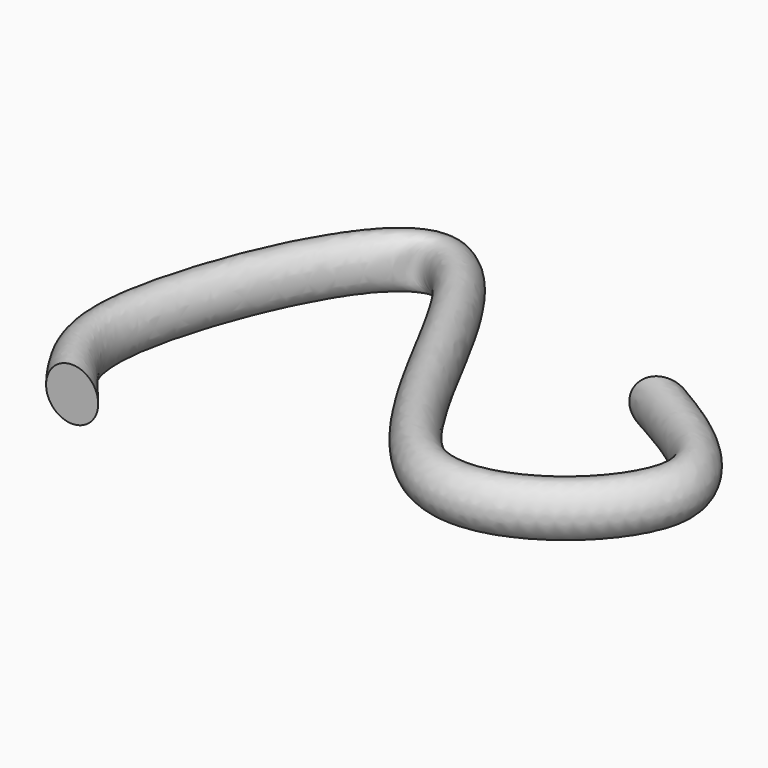
from build123d import *

# Parameters (mm, degrees)
F1_R = 18.4431966288


with BuildPart() as f2:
    # F2: sweep along a path in F0
    with BuildLine(Plane.XY) as f2_path:
        add(Edge.make_bspline(
            [(0, 0), (-23.761194386, 29.112652964), (-48.9792557695, 76.6812951235), (77.1344122049, 375.4096407944), (182.3572518142, -43.7840278005), (378.7293600517, 120.5719530528), (300.8012128, 170.0923232873), (262.8600299358, 191.9406354427)],
            knots=[0, 0, 0, 0, 0.1615196954, 0.3818541063, 0.6428975249, 0.8319430284, 1, 1, 1, 1], degree=3))
    # F1 (on Front) → F2 (sweep)
    with BuildSketch(Plane.XZ):
        Circle(F1_R)
    sweep(path=f2_path.line)


solid = f2.part
